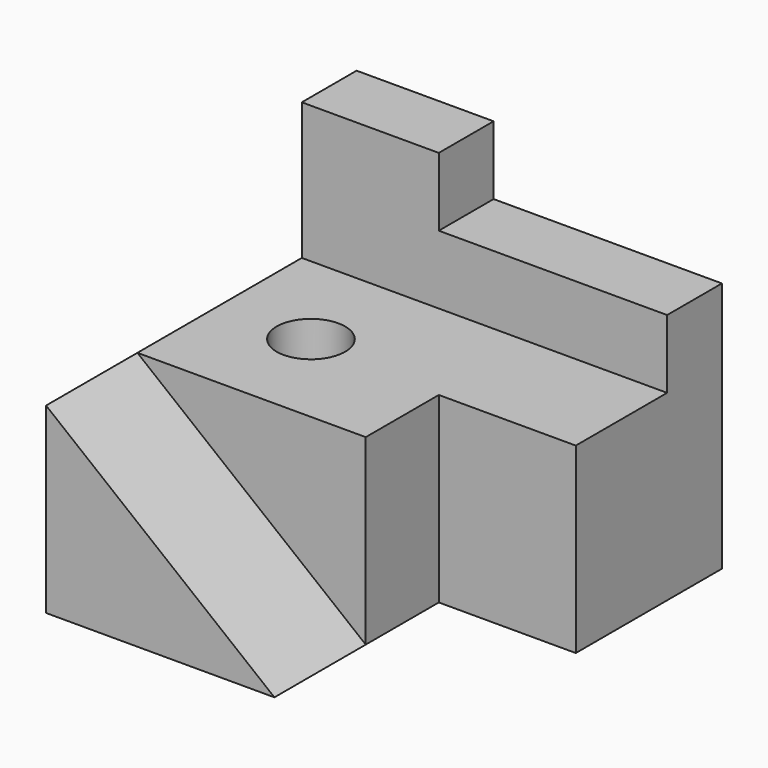
from build123d import *

# Parameters (mm, degrees)
F1_DEPTH = 25
F3_DEPTH = 40
F5_DEPTH = 15
F7_DEPTH = 40


with BuildPart() as f1:
    # F0 (on Front) → F1 (new body)
    with BuildSketch(Plane.XZ):
        Polygon((0, 40), (0, 0), (50, 0), align=None)
    extrude(amount=-F1_DEPTH)

    # F2 (on Top) → F3 (join)
    with BuildSketch(Plane.XY):
        Polygon((0, 70), (0, 25), (50, 25), (50, 45), (80, 45), (80, 70), align=None)
    extrude(amount=F3_DEPTH)

    # F4 (on face) → F5 (join)
    with BuildSketch(Plane(origin=(0, 70, 0), x_dir=(-1, 0, 0), z_dir=(0, 1, 0))):
        Polygon((-80, 0), (0, 0), (0, 70), (-30, 70), (-30, 55), (-80, 55), (-80, 40), align=None)
    extrude(amount=F5_DEPTH)

    # F6 (on face) → F7 (cut)
    with BuildSketch(Plane.XY.offset(40)):
        with BuildLine():
            ThreePointArc((27.5, 47.5), (20, 55), (12.5, 47.5))
            ThreePointArc((12.5, 47.5), (20, 40), (27.5, 47.5))
        make_face()
    extrude(amount=-F7_DEPTH, mode=Mode.SUBTRACT)


solid = f1.part
